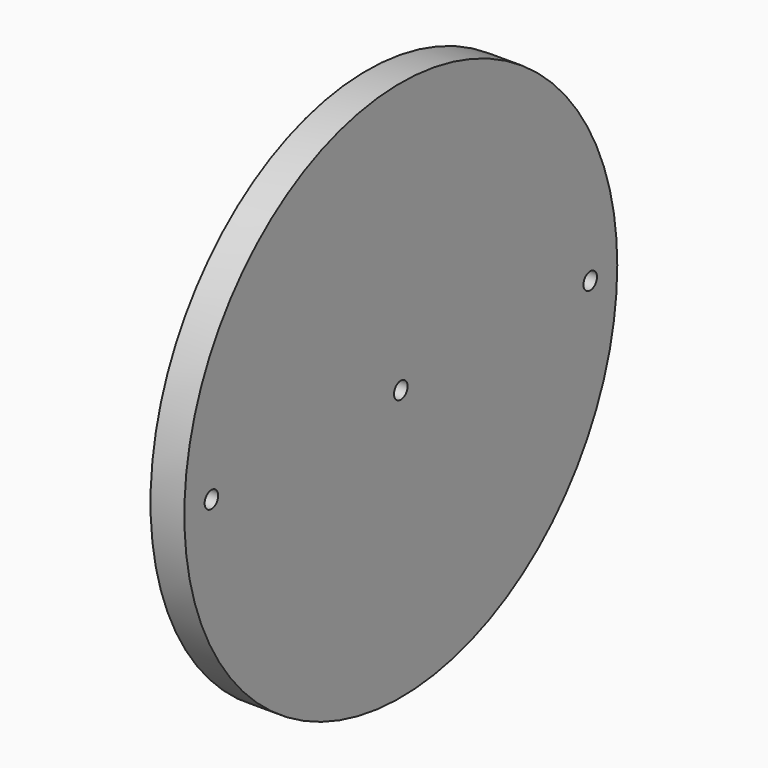
from build123d import *

# Parameters (mm, degrees)
F0_R     = 101.6
F2_DEPTH = 12.7
F3_D     = 6.35
F5_D     = 6.35
F7_D     = 6.35


with BuildPart() as f2:
    # F0 (on Right) → F2 (new body)
    with BuildSketch(Plane.YZ):
        Circle(F0_R)
    extrude(amount=F2_DEPTH)

    # F3 (through all)
    with Locations(Plane(origin=(0, 0, 0), x_dir=(0, 1, 0), z_dir=(-1, 0, 0))):
        with Locations((0, 0)):
            Hole(F3_D / 2)

    # F5 (through all)
    with Locations(Plane.YZ.offset(12.7)):
        with Locations((88.9, 0)):
            Hole(F5_D / 2)

    # F7 (through all)
    with Locations(Plane.YZ.offset(12.7)):
        with Locations((-88.9, 0)):
            Hole(F7_D / 2)


solid = f2.part
